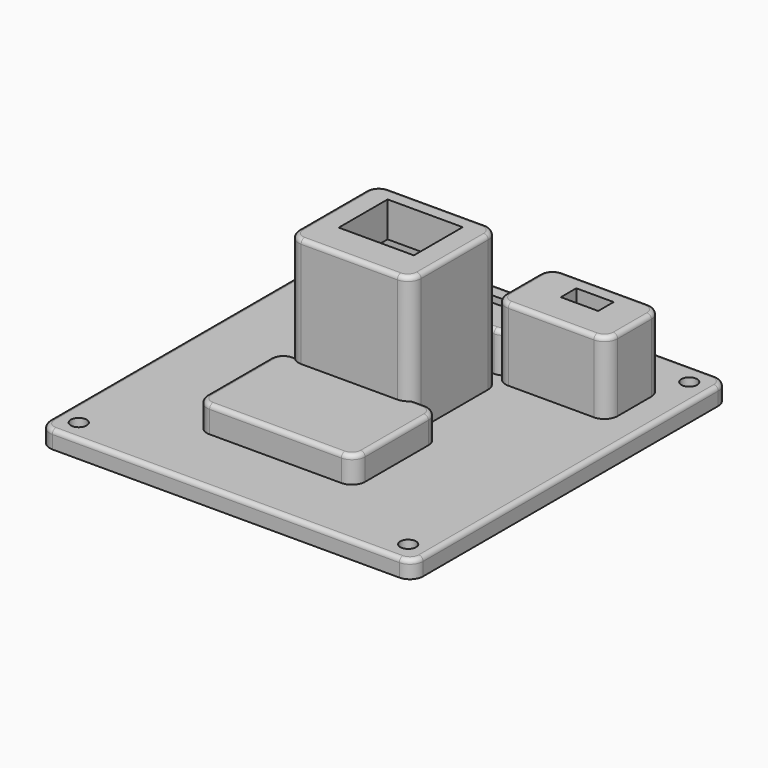
from build123d import *

# Parameters (mm, degrees)
SKETCH004_W     = 27.9
SKETCH004_H     = 25.1
PAD_DEPTH       = 35
POCKET_DEPTH    = 32.001
SKETCH002_W     = 17.1
SKETCH002_H     = 13.9
POCKET001_DEPTH = 35.001
SKETCH_W        = 23.9
SKETCH_H        = 21.1
POCKET002_DEPTH = 27.001
FILLET002_R     = 3
FILLET006_R     = 1
SKETCH008_W     = 27.9
SKETCH008_H     = 13.4
PAD001_DEPTH    = 13
POCKET003_DEPTH = 12.001
SKETCH006_W     = 15.5
SKETCH006_H     = 2.2
POCKET004_DEPTH = 13.001
SKETCH007_W     = 23.9
SKETCH007_H     = 9.4
POCKET005_DEPTH = 12
FILLET003_R     = 3
FILLET007_R     = 1
SKETCH012_W     = 25.5
SKETCH012_H     = 15.6
PAD002_DEPTH    = 20.5
POCKET006_DEPTH = 19.501
SKETCH010_W     = 8.5
SKETCH010_H     = 4.4
POCKET007_DEPTH = 20.501
SKETCH011_W     = 21.5
SKETCH011_H     = 11.6
POCKET008_DEPTH = 14.501
FILLET004_R     = 3
FILLET008_R     = 1
SKETCH013_W     = 85
SKETCH013_H     = 90
SKETCH013_W_2   = 23.9
SKETCH013_H_2   = 9.4
SKETCH013_W_3   = 21.5
SKETCH013_H_3   = 11.6
SKETCH013_H_4   = 21.1
SKETCH013_W_4   = 32
SKETCH013_H_5   = 20
PAD003_DEPTH    = 4
SKETCH016_R     = 1.8
POCKET010_DEPTH = 4.001
FILLET_R        = 3
FILLET009_R     = 1
SKETCH015_W     = 36
SKETCH015_H     = 24
PAD004_DEPTH    = 10
SKETCH014_W     = 32
SKETCH014_H     = 20
POCKET009_DEPTH = 7.001
FILLET001_R     = 3
FILLET005_R     = 1


with BuildPart() as eth_body:
    # Sketch004 → Pad (new body)
    with BuildSketch(Plane.XY):
        with Locations((10.45, 6.85)):
            Rectangle(SKETCH004_W, SKETCH004_H)
    extrude(amount=PAD_DEPTH)

    # Sketch003 → Pocket (cut, through all)
    with BuildSketch(Plane.XY.offset(32)):
        Polygon((0, 2), (20.9, 2), (20.9, 0), (20.1, 0), (20.1, -2.2), (0.8, -2.2), (0.8, 0), (0, 0), align=None)
    extrude(amount=-POCKET_DEPTH, mode=Mode.SUBTRACT)

    # Sketch002 → Pocket001 (cut, through all)
    with BuildSketch(Plane.XY):
        with Locations((10.45, 8.95)):
            Rectangle(SKETCH002_W, SKETCH002_H)
    extrude(amount=POCKET001_DEPTH, mode=Mode.SUBTRACT)

    # Sketch → Pocket002 (cut, through all)
    with BuildSketch(Plane.XY.offset(27)):
        with Locations((10.45, 6.85)):
            Rectangle(SKETCH_W, SKETCH_H)
    extrude(amount=-POCKET002_DEPTH, mode=Mode.SUBTRACT)

    # Fillet002
    fillet002_edges = [eth_body.edges().sort_by_distance(p)[0] for p in [
        (-3.5, -5.7, 17.5),
        (24.4, -5.7, 17.5),
        (24.4, 19.4, 17.5),
        (-3.5, 19.4, 17.5),
    ]]
    fillet(fillet002_edges, radius=FILLET002_R)

    # Fillet006
    fillet006_edges = [eth_body.edges().sort_by_distance(p)[0] for p in [
        (24.4, 6.85, 0),
        (24.4, -2.7, 17.5),
        (24.4, 16.4, 17.5),
        (24.4, 6.85, 35),
    ]]
    fillet(fillet006_edges, radius=FILLET006_R)


with BuildPart() as eth_body_1:
    # Body placement: moved
    add(eth_body.part.moved(Location((29.5, 44, 0))))


with BuildPart() as sd_body:
    # Sketch008 → Pad001 (new body)
    with BuildSketch(Plane.XY):
        with Locations((10.45, 1)):
            Rectangle(SKETCH008_W, SKETCH008_H)
    extrude(amount=PAD001_DEPTH)

    # Sketch005 → Pocket003 (cut, through all)
    with BuildSketch(Plane.XY.offset(12)):
        Polygon((0, 2), (20.9, 2), (20.9, 0), (20.1, 0), (20.1, -2.2), (0.8, -2.2), (0.8, 0), (0, 0), align=None)
    extrude(amount=-POCKET003_DEPTH, mode=Mode.SUBTRACT)

    # Sketch006 → Pocket004 (cut, through all)
    with BuildSketch(Plane.XY):
        with Locations((10.45, 3.1)):
            Rectangle(SKETCH006_W, SKETCH006_H)
    extrude(amount=POCKET004_DEPTH, mode=Mode.SUBTRACT)

    # Sketch007 → Pocket005 (cut)
    with BuildSketch(Plane.XY.offset(7)):
        with Locations((10.45, 1)):
            Rectangle(SKETCH007_W, SKETCH007_H)
    extrude(amount=-POCKET005_DEPTH, mode=Mode.SUBTRACT)

    # Fillet003
    fillet003_edges = [sd_body.edges().sort_by_distance(p)[0] for p in [
        (-3.5, -5.7, 6.5),
        (-3.5, 7.7, 6.5),
        (24.4, 7.7, 6.5),
        (24.4, -5.7, 6.5),
    ]]
    fillet(fillet003_edges, radius=FILLET003_R)

    # Fillet007
    fillet007_edges = [sd_body.edges().sort_by_distance(p)[0] for p in [
        (10.45, 7.7, 0),
        (21.4, 7.7, 6.5),
        (-0.5, 7.7, 6.5),
        (10.45, 7.7, 13),
    ]]
    fillet(fillet007_edges, radius=FILLET007_R)


with BuildPart() as sd_body_1:
    # Body001 placement: moved
    add(sd_body.part.moved(Location((29.5, 71.5, 0))))


with BuildPart() as friend_body:
    # Sketch012 → Pad002 (new body)
    with BuildSketch(Plane.XY):
        with Locations((9.25, 2.1)):
            Rectangle(SKETCH012_W, SKETCH012_H)
    extrude(amount=PAD002_DEPTH)

    # Sketch009 → Pocket006 (cut, through all)
    with BuildSketch(Plane.XY.offset(19.5)):
        Polygon((0, 2), (0, 0), (0.8, 0), (0.8, -2.2), (17.7, -2.2), (17.7, 0), (18.5, 0), (18.5, 2), (17.7, 2), (17.7, 2.8), (0.8, 2.8), (0.8, 2), align=None)
    extrude(amount=-POCKET006_DEPTH, mode=Mode.SUBTRACT)

    # Sketch010 → Pocket007 (cut, through all)
    with BuildSketch(Plane.XY):
        with Locations((9.565, 4.2)):
            Rectangle(SKETCH010_W, SKETCH010_H)
    extrude(amount=POCKET007_DEPTH, mode=Mode.SUBTRACT)

    # Sketch011 → Pocket008 (cut, through all)
    with BuildSketch(Plane.XY.offset(14.5)):
        with Locations((9.25, 2.1)):
            Rectangle(SKETCH011_W, SKETCH011_H)
    extrude(amount=-POCKET008_DEPTH, mode=Mode.SUBTRACT)

    # Fillet004
    fillet004_edges = [friend_body.edges().sort_by_distance(p)[0] for p in [
        (22, -5.7, 10.25),
        (-3.5, -5.7, 10.25),
        (22, 9.9, 10.25),
        (-3.5, 9.9, 10.25),
    ]]
    fillet(fillet004_edges, radius=FILLET004_R)

    # Fillet008
    fillet008_edges = [friend_body.edges().sort_by_distance(p)[0] for p in [
        (22, 2.1, 0),
        (22, -2.7, 10.25),
        (22, 6.9, 10.25),
        (22, 2.1, 20.5),
    ]]
    fillet(fillet008_edges, radius=FILLET008_R)


with BuildPart() as friend_body_1:
    # Body002 placement: moved
    add(friend_body.part.moved(Location((56.25, 69.5, 0))))


with BuildPart() as cover_body:
    # Sketch013 → Pad003 (new body)
    with BuildSketch(Plane.XY):
        with Locations((42.5, 45)):
            Rectangle(SKETCH013_W, SKETCH013_H)
        with Locations((39.95, 72.5)):
            Rectangle(SKETCH013_W_2, SKETCH013_H_2, mode=Mode.SUBTRACT)
        with Locations((65.5, 71.6)):
            Rectangle(SKETCH013_W_3, SKETCH013_H_3, mode=Mode.SUBTRACT)
        with Locations((39.95, 50.85)):
            Rectangle(SKETCH013_W_2, SKETCH013_H_4, mode=Mode.SUBTRACT)
        with Locations((41, 28)):
            Rectangle(SKETCH013_W_4, SKETCH013_H_5, mode=Mode.SUBTRACT)
    extrude(amount=PAD003_DEPTH)

    # Sketch016 → Pocket010 (cut, through all)
    with BuildSketch(Plane.XY):
        with Locations((5, 5)):
            Circle(SKETCH016_R)
        with Locations((80, 5)):
            Circle(SKETCH016_R)
        with Locations((80, 85)):
            Circle(SKETCH016_R)
        with Locations((5, 85)):
            Circle(SKETCH016_R)
    extrude(amount=POCKET010_DEPTH, mode=Mode.SUBTRACT)

    # Fillet
    fillet_edges = [cover_body.edges().sort_by_distance(p)[0] for p in [
        (0, 0, 2),
        (85, 0, 2),
        (85, 90, 2),
        (0, 90, 2),
    ]]
    fillet(fillet_edges, radius=FILLET_R)

    # Fillet009
    fillet009_edges = [cover_body.edges().sort_by_distance(p)[0] for p in [
        (42.5, 0, 4),
    ]]
    fillet(fillet009_edges, radius=FILLET009_R)


with BuildPart() as cap_body:
    # Sketch015 → Pad004 (new body)
    with BuildSketch(Plane.XY):
        with Locations((16, 10)):
            Rectangle(SKETCH015_W, SKETCH015_H)
    extrude(amount=PAD004_DEPTH)

    # Sketch014 → Pocket009 (cut, through all)
    with BuildSketch(Plane.XY.offset(7)):
        with Locations((16, 10)):
            Rectangle(SKETCH014_W, SKETCH014_H)
    extrude(amount=-POCKET009_DEPTH, mode=Mode.SUBTRACT)

    # Fillet001
    fillet001_edges = [cap_body.edges().sort_by_distance(p)[0] for p in [
        (-2, -2, 5),
        (34, -2, 5),
        (34, 22, 5),
        (-2, 22, 5),
    ]]
    fillet(fillet001_edges, radius=FILLET001_R)

    # Fillet005
    fillet005_edges = [cap_body.edges().sort_by_distance(p)[0] for p in [
        (-2, 10, 0),
        (-2, 19, 5),
        (-2, 1, 5),
        (-2, 10, 10),
    ]]
    fillet(fillet005_edges, radius=FILLET005_R)


with BuildPart() as cap_body_1:
    # Body004 placement: moved
    add(cap_body.part.moved(Location((25, 18, 0))))


solid = Compound([eth_body_1.part, sd_body_1.part, friend_body_1.part, cover_body.part, cap_body_1.part])
